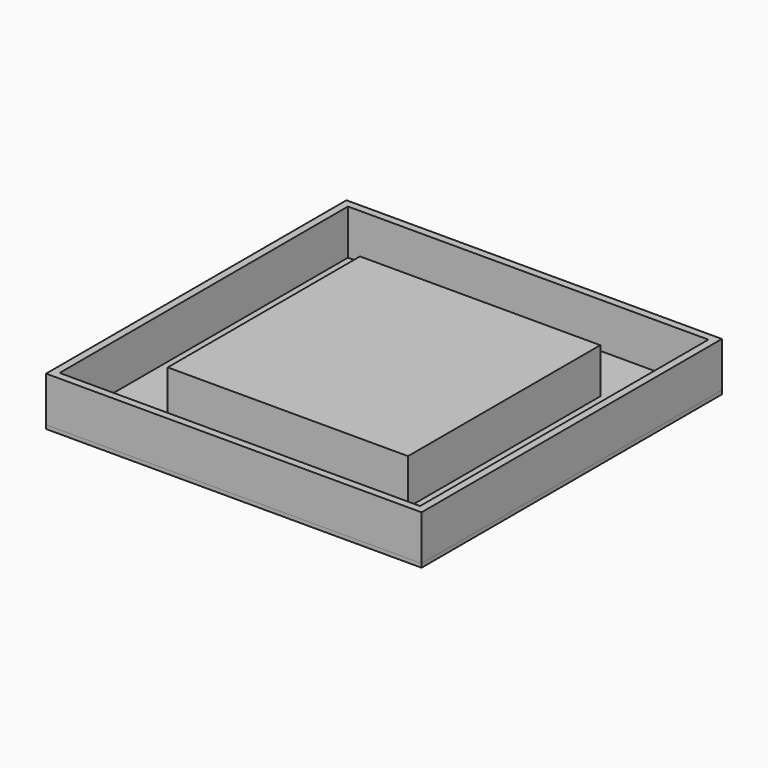
from build123d import *

# Parameters (mm, degrees)
F0_W     = 203.2
F0_H     = 203.2
F1_DEPTH = 41.275
F0_W_2   = 317.5
F0_H_2   = 317.5
F0_W_3   = 304.8
F0_H_3   = 304.8
F2_DEPTH = 3.175


with BuildPart() as f1:
    # F0 (on Top) → F1 (new body)
    with BuildSketch(Plane.XY):
        with Locations((152.4, 152.4)):
            Rectangle(F0_W, F0_H)
    extrude(amount=F1_DEPTH)


with BuildPart() as f1b:
    # F0 (on Top) → F1, piece 2 (new body)
    with BuildSketch(Plane.XY):
        with Locations((152.4, 152.4)):
            Rectangle(F0_W_2, F0_H_2)
        with Locations((152.4, 152.4)):
            Rectangle(F0_W_3, F0_H_3, mode=Mode.SUBTRACT)
    extrude(amount=F1_DEPTH)


with BuildPart() as f2:
    # F0 (on Top) → F2 (new body)
    with BuildSketch(Plane.XY):
        with Locations((152.4, 152.4)):
            Rectangle(F0_W_2, F0_H_2)
        with Locations((152.4, 152.4)):
            Rectangle(F0_W_3, F0_H_3, mode=Mode.SUBTRACT)
        with Locations((152.4, 152.4)):
            Rectangle(F0_W_3, F0_H_3)
        with Locations((152.4, 152.4)):
            Rectangle(F0_W, F0_H, mode=Mode.SUBTRACT)
    extrude(amount=F2_DEPTH)


solid = Compound([f1.part, f1b.part, f2.part])
